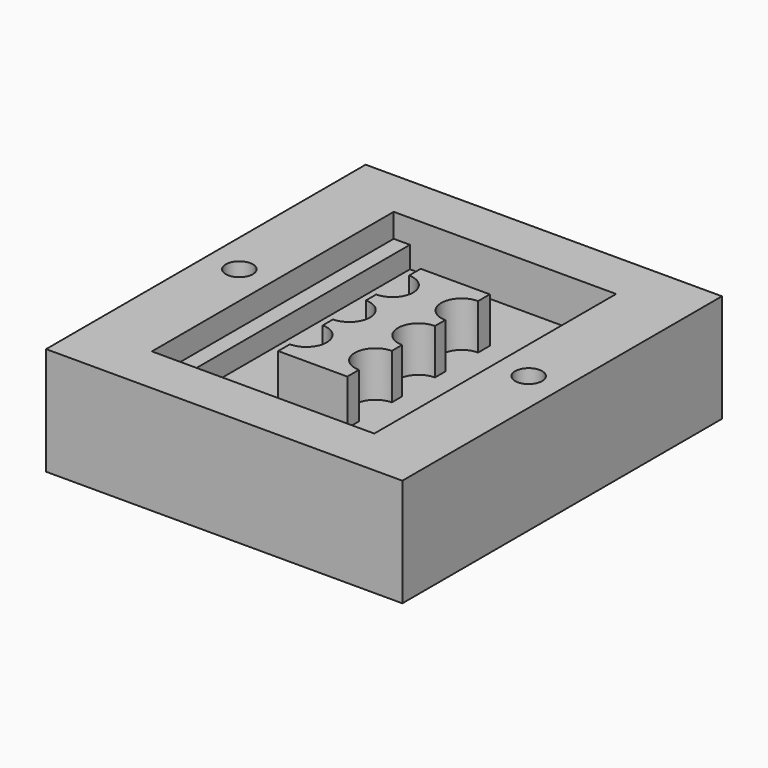
from build123d import *

# Parameters (mm, degrees)
F0_W     = 33
F0_H     = 37
F1_DEPTH = 10
F2_W     = 17.6
F2_H     = 28
F3_DEPTH = 4.2
F4_W     = 1.5
F4_H     = 28
F5_DEPTH = 2.2
F6_R     = 1.25
F7_DEPTH = 10.001


with BuildPart() as f1:
    # F0 (on Top) → F1 (new body)
    with BuildSketch(Plane.XY):
        Rectangle(F0_W, F0_H)
    extrude(amount=F1_DEPTH)

    # F2 (on face) → F3 (cut)
    with BuildSketch(Plane.XY.offset(10)):
        Rectangle(F2_W, F2_H)
        with BuildLine():
            Line((3.2, -6.9), (3.2, -8.25))
            Line((3.2, -8.25), (-3.2, -8.25))
            Line((-3.2, -8.25), (-3.2, -6.9))
            ThreePointArc((-3.2, -6.9), (-1.3, -5), (-3.2, -3.1))
            Line((-3.2, -3.1), (-3.2, -1.9))
            ThreePointArc((-3.2, -1.9), (-1.3, 0), (-3.2, 1.9))
            Line((-3.2, 1.9), (-3.2, 3.1))
            ThreePointArc((-3.2, 3.1), (-1.3, 5), (-3.2, 6.9))
            Line((-3.2, 6.9), (-3.2, 8.25))
            Line((-3.2, 8.25), (3.2, 8.25))
            Line((3.2, 8.25), (3.2, 6.9))
            ThreePointArc((3.2, 6.9), (1.3, 5), (3.2, 3.1))
            Line((3.2, 3.1), (3.2, 1.9))
            ThreePointArc((3.2, 1.9), (1.3, 0), (3.2, -1.9))
            Line((3.2, -1.9), (3.2, -3.1))
            ThreePointArc((3.2, -3.1), (1.3, -5), (3.2, -6.9))
        make_face(mode=Mode.SUBTRACT)
    extrude(amount=-F3_DEPTH, mode=Mode.SUBTRACT)

    # F4 (on face) → F5 (cut)
    with BuildSketch(Plane.XY.offset(10)):
        with Locations((-9.55, 0)):
            Rectangle(F4_W, F4_H)
        with Locations((9.55, 0)):
            Rectangle(F4_W, F4_H)
    extrude(amount=-F5_DEPTH, mode=Mode.SUBTRACT)

    # F6 (on face) → F7 (cut, through all)
    with BuildSketch(Plane.XY.offset(10)):
        with Locations((13.4, 0)):
            Circle(F6_R)
        with Locations((-13.4, 0)):
            Circle(F6_R)
    extrude(amount=-F7_DEPTH, mode=Mode.SUBTRACT)


solid = f1.part
